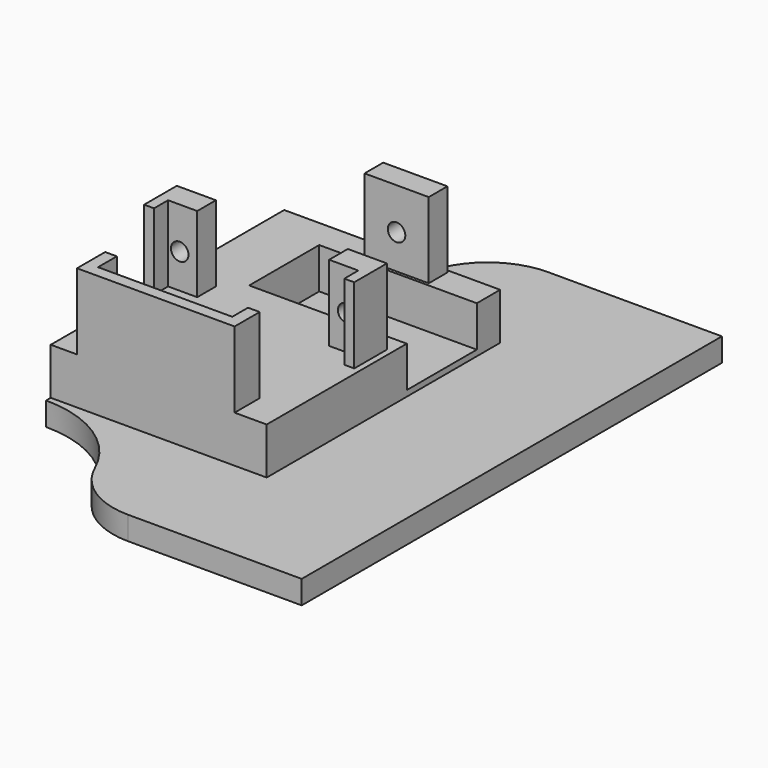
from build123d import *

# Parameters (mm, degrees)
SKETCH_W        = 36
SKETCH_H        = 50
PAD_DEPTH       = 8
PAD001_DEPTH    = 13
SKETCH004_W     = 11
SKETCH004_H     = 4
PAD003_DEPTH    = 13
PAD002_DEPTH    = 13
SKETCH005_W     = 25.977524
SKETCH005_H     = 13
POCKET_DEPTH    = 5
SKETCH006_R     = 1.5
POCKET001_DEPTH = 5
SKETCH007_R     = 1.5
POCKET002_DEPTH = 5
CHAMFER_SIZE    = 2
CHAMFER001_SIZE = 2
CHAMFER002_SIZE = 3
CHAMFER003_SIZE = 2
SKETCH008_W     = 23.210894
SKETCH008_H     = 13
POCKET003_DEPTH = 2
CHAMFER004_SIZE = 1
SKETCH009_W     = 50
SKETCH009_H     = 8
PAD004_DEPTH    = 50
SKETCH010_W     = 50
SKETCH010_H     = 15
POCKET004_DEPTH = 7
SKETCH011_W     = 52.452881
SKETCH011_H     = 55.220252
POCKET005_DEPTH = 8
SKETCH012_W     = 59
SKETCH012_H     = 90
PAD005_DEPTH    = 4
SKETCH013_R     = 19
POCKET006_DEPTH = 4.001
FILLET_R        = 13


with BuildPart() as pad003:
    # Sketch → Pad (new body)
    with BuildSketch(Plane.XY):
        Rectangle(SKETCH_W, SKETCH_H)
    extrude(amount=PAD_DEPTH)

    # Sketch002 → Pad001 (new body)
    with BuildSketch(Plane.XY.offset(8)):
        Polygon((-13.5, -25), (13.5, -25), (13.5, -19.629501), (11.5, -19.629501), (11.5, -23), (-11.5, -23), (-11.5, -18.969727), (-13.5, -18.969727), align=None)
    extrude(amount=PAD001_DEPTH)

    # Sketch004 → Pad003 (new body)
    with BuildSketch(Plane.XY.offset(8)):
        with Locations((4.8652, 22.5)):
            Rectangle(SKETCH004_W, SKETCH004_H)
    extrude(amount=PAD003_DEPTH)


with BuildPart() as fillet_body:
    # Sketch003 → Pad002 (new body)
    with BuildSketch(Plane.XY.offset(8)):
        Polygon((11.3, 2), (18, 2), (18, -5), (16.3, -5), (16.3, -2), (11.3, -2), align=None)
        Polygon((-11.3, 2), (-18, 2), (-18, -5), (-16.3, -5), (-16.3, -2), (-11.3, -2), align=None)
    extrude(amount=PAD002_DEPTH)

    # Fusion: union Pad003
    add(pad003.part)

    # Sketch005 → Pocket (cut)
    with BuildSketch(Plane.XY.offset(8)):
        with Locations((5.011238, 13.5)):
            Rectangle(SKETCH005_W, SKETCH005_H)
    extrude(amount=-POCKET_DEPTH, mode=Mode.SUBTRACT)

    # Sketch006 → Pocket001 (cut)
    with BuildSketch(Plane(origin=(0, 2, 0), x_dir=(-1, 0, 0), z_dir=(0, 1, 0))):
        with Locations((-14.3, 13.9)):
            Circle(SKETCH006_R)
        with Locations((14.3, 13.9)):
            Circle(SKETCH006_R)
    extrude(amount=-POCKET001_DEPTH, mode=Mode.SUBTRACT)

    # Sketch007 → Pocket002 (cut)
    with BuildSketch(Plane(origin=(0, 24.5, 0), x_dir=(-1, 0, 0), z_dir=(0, 1, 0))):
        with Locations((-4.854515, 13.9)):
            Circle(SKETCH007_R)
    extrude(amount=-POCKET002_DEPTH, mode=Mode.SUBTRACT)

    # Chamfer
    chamfer_edges = [fillet_body.edges().sort_by_distance(p)[0] for p in [
        (18, 13.5, 3),
    ]]
    chamfer(chamfer_edges, length=CHAMFER_SIZE)

    # Chamfer001
    chamfer001_edges = [fillet_body.edges().sort_by_distance(p)[0] for p in [
        (16, 13.5, 3),
    ]]
    chamfer(chamfer001_edges, length=CHAMFER001_SIZE)

    # Chamfer002
    chamfer002_edges = [fillet_body.edges().sort_by_distance(p)[0] for p in [
        (14, 13.5, 3),
    ]]
    chamfer(chamfer002_edges, length=CHAMFER002_SIZE)

    # Chamfer003
    chamfer003_edges = [fillet_body.edges().sort_by_distance(p)[0] for p in [
        (11, 13.5, 3),
    ]]
    chamfer(chamfer003_edges, length=CHAMFER003_SIZE)

    # Sketch008 → Pocket003 (cut)
    with BuildSketch(Plane.XY.offset(3)):
        with Locations((7.17125, 13.5)):
            Rectangle(SKETCH008_W, SKETCH008_H)
    extrude(amount=-POCKET003_DEPTH, mode=Mode.SUBTRACT)

    # Chamfer004
    chamfer004_edges = [fillet_body.edges().sort_by_distance(p)[0] for p in [
        (-4.434197, 13.5, 3),
    ]]
    chamfer(chamfer004_edges, length=CHAMFER004_SIZE)

    # Sketch009 → Pad004 (new body)
    with BuildSketch(Plane.YZ.offset(18)):
        with Locations((0, 4)):
            Rectangle(SKETCH009_W, SKETCH009_H)
    extrude(amount=PAD004_DEPTH)

    # Sketch010 → Pocket004 (cut)
    with BuildSketch(Plane.XY.offset(8)):
        with Locations((17, 12.5)):
            Rectangle(SKETCH010_W, SKETCH010_H)
    extrude(amount=-POCKET004_DEPTH, mode=Mode.SUBTRACT)

    # Sketch011 → Pocket005 (cut)
    with BuildSketch(Plane.XY.offset(8)):
        with Locations((45.22644, 0)):
            Rectangle(SKETCH011_W, SKETCH011_H)
    extrude(amount=-POCKET005_DEPTH, mode=Mode.SUBTRACT)

    # Sketch012 → Pad005 (new body)
    with BuildSketch(Plane(origin=(0, 0, 0), x_dir=(1, 0, 0), z_dir=(0, 0, -1))):
        with Locations((11.5, 0)):
            Rectangle(SKETCH012_W, SKETCH012_H)
    extrude(amount=PAD005_DEPTH)

    # Sketch013 → Pocket006 (cut, through all)
    with BuildSketch(Plane.XY):
        with Locations((-18, 45)):
            Circle(SKETCH013_R)
        with Locations((-18, -45)):
            Circle(SKETCH013_R)
    extrude(amount=-POCKET006_DEPTH, mode=Mode.SUBTRACT)

    # Fillet
    fillet_edges = [fillet_body.edges().sort_by_distance(p)[0] for p in [
        (1, -45, -2),
        (1, 45, -2),
    ]]
    fillet(fillet_edges, radius=FILLET_R)


solid = fillet_body.part
